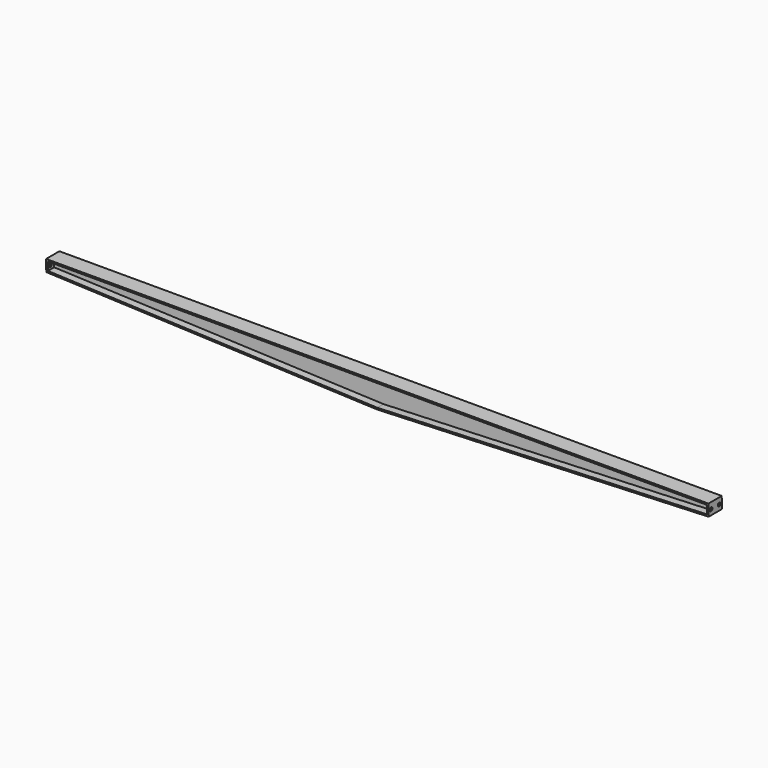
from build123d import *

# Parameters (mm, degrees)
F1_DEPTH = 2.5
F3_DEPTH = 40
F4_R     = 8.5
F5_DEPTH = 25
F6_R     = 8.5
F7_DEPTH = 25


with BuildPart() as f1:
    # F0 (on Front) → F1 (new body, symmetric)
    with BuildSketch(Plane.XZ):
        Polygon((1585, -32.951629775), (0, -32.951629775), (-1585, -32.951629775), (-1584.3019037425, -72.9455375812), (0, -136.951629775), (1585.6980962575, -72.9455375812), align=None)
    extrude(amount=F1_DEPTH, both=True)

    # F2 (on Front) → F3 (join, symmetric)
    with BuildSketch(Plane.XZ):
        Polygon((1592.8615781049, -24.951629775), (-1593.1408591438, -24.951629775), (-1592.1689156564, -80.6342348721), (0, -144.9581558134), (1593.8333374915, -80.6236877443), align=None)
        Polygon((-1584.3019037425, -72.9455375812), (-1585, -32.951629775), (1585, -32.951629775), (1585.6980962575, -72.9455375812), (0, -136.951629775), align=None, mode=Mode.SUBTRACT)
    extrude(amount=F3_DEPTH, both=True)

    # F4 (on face) → F5 (cut)
    with BuildSketch(Plane(origin=(-1593.0910096212, 0, -27.8075070095), x_dir=(0, -1, 0), z_dir=(-0.9998476952, 0, -0.0174524064))):
        with Locations((-25, -27.1436877353)):
            Circle(F4_R)
        with Locations((25, -27.1436877353)):
            Circle(F4_R)
    extrude(amount=-F5_DEPTH, mode=Mode.SUBTRACT)

    # F6 (on face) → F7 (cut)
    with BuildSketch(Plane(origin=(1591.9410143265, 0, 27.787433767), x_dir=(0, 1, 0), z_dir=(0.9998476952, 0, 0.0174524064))):
        with Locations((-25, -82.7470971803)):
            Circle(F6_R)
        with Locations((25, -82.7470971803)):
            Circle(F6_R)
    extrude(amount=-F7_DEPTH, mode=Mode.SUBTRACT)


solid = f1.part
